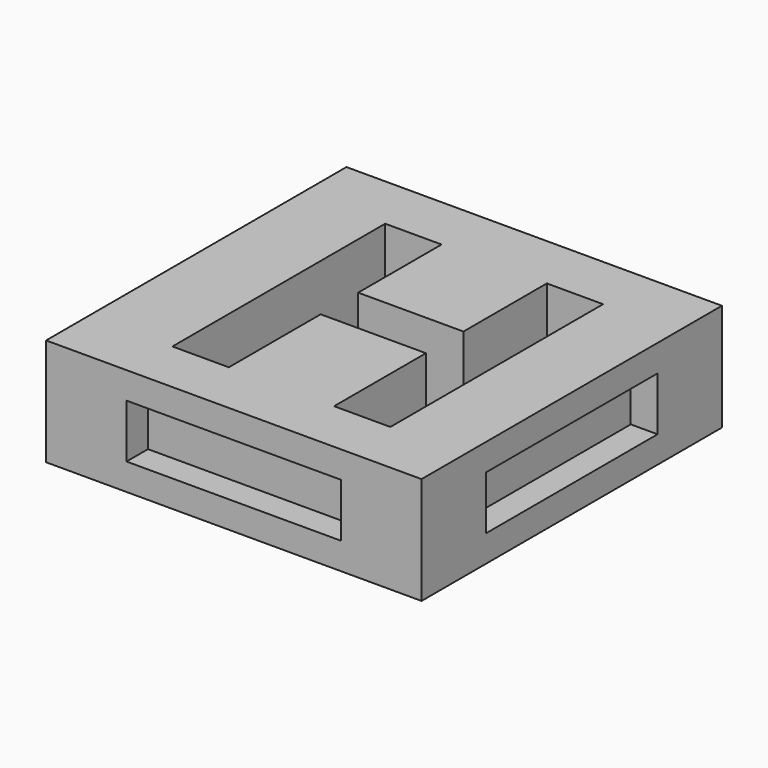
from build123d import *

# Parameters (mm, degrees)
F0_W     = 35.56
F0_H     = 35.56
F1_DEPTH = 5.08
F2_W     = 19.812
F2_H     = 4.572
F3_DEPTH = 2.54
F4_W     = 19.812
F4_H     = 4.572
F5_DEPTH = 2.54
F6_W     = 20.32
F6_H     = 5.08
F7_DEPTH = 2.54
F8_W     = 20.32
F8_H     = 5.08
F9_DEPTH = 2.54


with BuildPart() as f1:
    # F0 (on Top) → F1 (new body, symmetric)
    with BuildSketch(Plane.XY):
        Rectangle(F0_W, F0_H)
        Polygon((10.7597222222, 12.4850260417), (10.7597222222, -12.7), (5.4349826389, -12.7), (5.4349826389, -1.8300347222), (-4.5365017361, -1.8300347222), (-4.5365017361, -12.7), (-9.8777777778, -12.7), (-9.8777777778, 12.4850260417), (-4.5365017361, 12.4850260417), (-4.5365017361, 2.6127604167), (5.4349826389, 2.6127604167), (5.4349826389, 12.4850260417), align=None, mode=Mode.SUBTRACT)
    extrude(amount=F1_DEPTH, both=True)

    # F2 (on face) → F3 (join)
    with BuildSketch(Plane(origin=(0, 17.78, 0), x_dir=(-1, 0, 0), z_dir=(0, 1, 0))):
        Rectangle(F2_W, F2_H)
    extrude(amount=F3_DEPTH)

    # F4 (on face) → F5 (join)
    with BuildSketch(Plane(origin=(-17.78, 0, 0), x_dir=(0, -1, 0), z_dir=(-1, 0, 0))):
        Rectangle(F4_W, F4_H)
    extrude(amount=F5_DEPTH)

    # F6 (on face) → F7 (cut)
    with BuildSketch(Plane.XZ.offset(17.78)):
        Rectangle(F6_W, F6_H)
    extrude(amount=-F7_DEPTH, mode=Mode.SUBTRACT)

    # F8 (on face) → F9 (cut)
    with BuildSketch(Plane.YZ.offset(17.78)):
        Rectangle(F8_W, F8_H)
    extrude(amount=-F9_DEPTH, mode=Mode.SUBTRACT)


solid = f1.part
